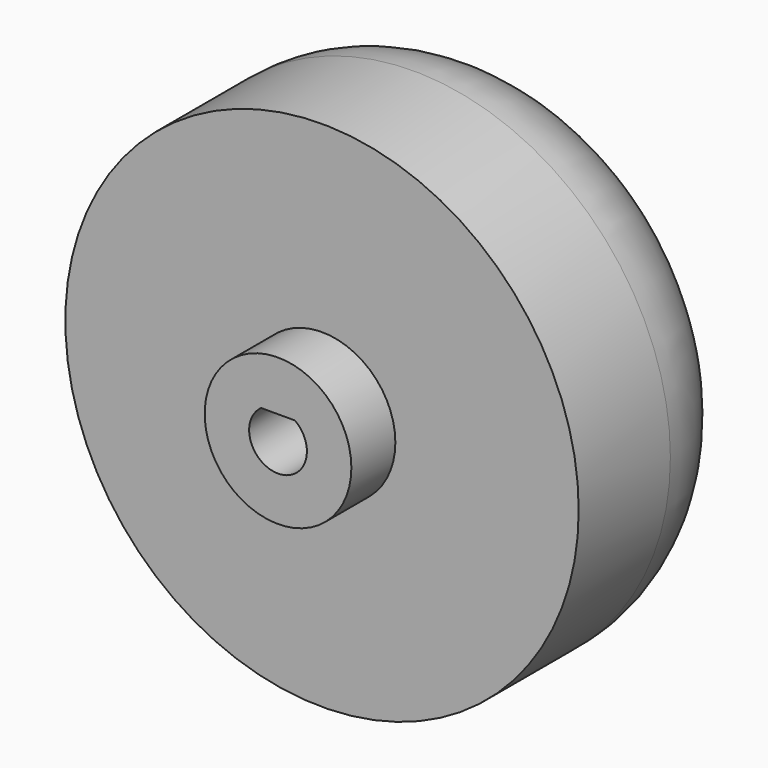
from build123d import *

# Parameters (mm, degrees)
POCKET_DEPTH = 15


with BuildPart() as part:
    # Sketch → Revolution (revolve)
    with BuildSketch(Plane.XY):
        with BuildLine():
            Line((15.5, 31), (0, 31))
            Line((0, 31), (0, 0))
            Line((0, 0), (8, 0))
            Line((8, 0), (8, 6))
            Line((8, 6), (28, 6))
            Line((28, 18.5), (28, 6))
            ThreePointArc((28, 18.5), (25.815026, 25.56047), (20.023961, 30.15263))
            Line((20.5, 31), (20.023961, 30.15263))
            Line((15.5, 31), (20.5, 31))
        make_face()
    revolve(axis=Axis((0, 0, 0), (0, 1, 0)))

    # Sketch001 → Pocket (cut)
    with BuildSketch(Plane.XZ):
        with BuildLine():
            Line((-1.849324, 2.55), (1.849324, 2.55))
            ThreePointArc((-1.849324, 2.55), (0, -3.15), (1.849324, 2.55))
        make_face()
    extrude(amount=-POCKET_DEPTH, mode=Mode.SUBTRACT)


solid = part.part
